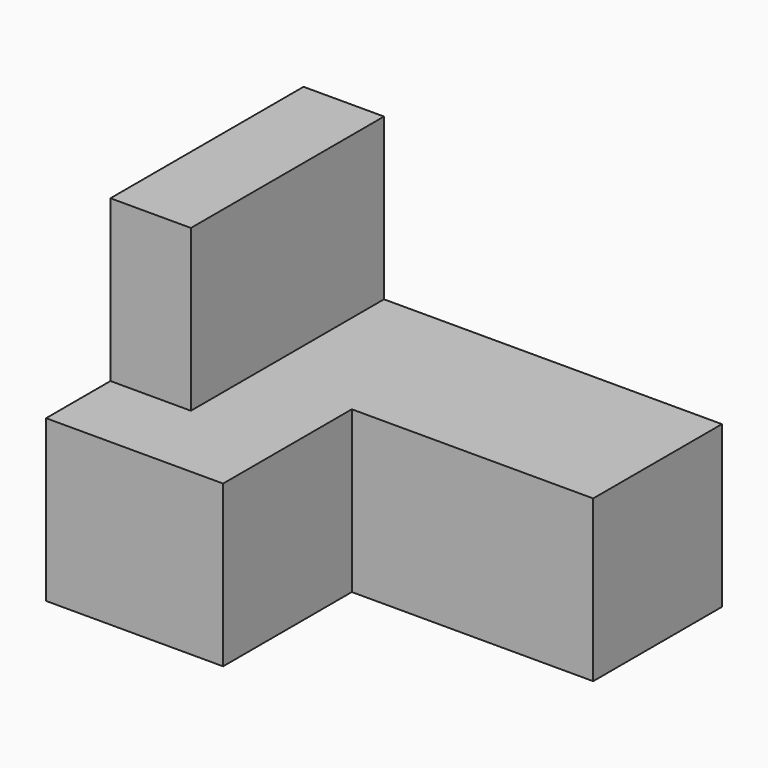
from build123d import *

# Parameters (mm, degrees)
F1_DEPTH = 25.4
F2_W     = 6.35
F2_H     = 12.7
F3_DEPTH = 6.35
F4_W     = 19.05
F4_H     = 12.7
F5_DEPTH = 12.701


with BuildPart() as f1:
    # F0 (on Front) → F1 (new body)
    with BuildSketch(Plane.XZ):
        Polygon((0, 25.4), (0, 0), (33.02, 0), (33.02, 12.7), (6.35, 12.7), (6.35, 25.4), align=None)
    extrude(amount=F1_DEPTH)

    # F2 (on face) → F3 (cut)
    with BuildSketch(Plane.XZ.offset(25.4)):
        with Locations((3.175, 19.05)):
            Rectangle(F2_W, F2_H)
    extrude(amount=-F3_DEPTH, mode=Mode.SUBTRACT)

    # F4 (on face) → F5 (cut, through all)
    with BuildSketch(Plane.XY.offset(12.7)):
        with Locations((23.495, -19.05)):
            Rectangle(F4_W, F4_H)
    extrude(amount=-F5_DEPTH, mode=Mode.SUBTRACT)


solid = f1.part
